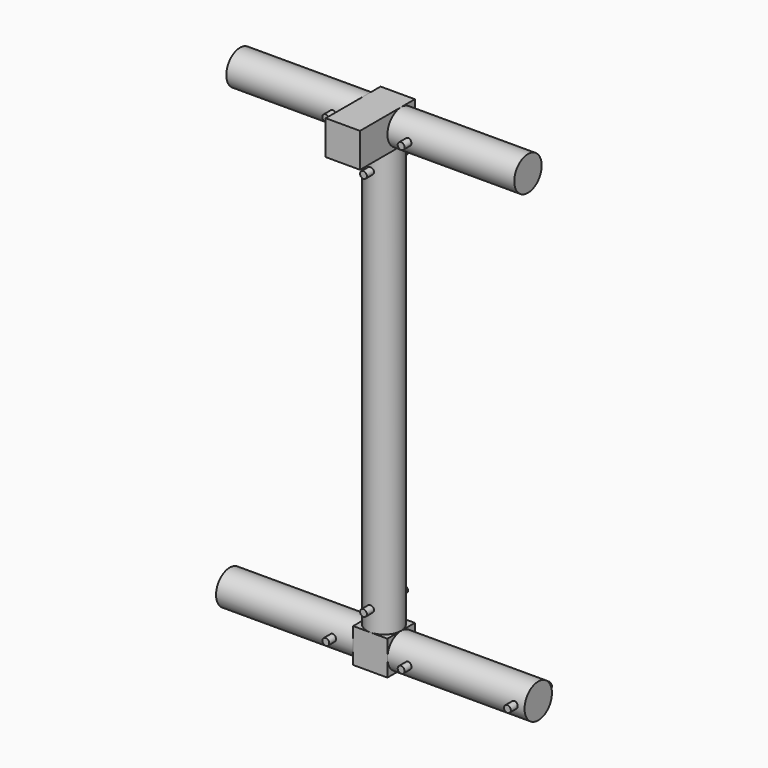
from build123d import *

# Parameters (mm, degrees)
CYLINDER_R                = 10
CYLINDER_DEPTH            = 80
CYLINDER002_R             = 10
CYLINDER002_DEPTH         = 80
CYLINDER003_R             = 10
CYLINDER003_DEPTH         = 74
CYLINDER004_R             = 10
CYLINDER004_DEPTH         = 74
CYLINDER005_R             = 10
CYLINDER005_DEPTH         = 74
CYLINDER006_R             = 10
CYLINDER006_DEPTH         = 101
CYLINDER007_R             = 10
CYLINDER007_DEPTH         = 74
TUBE_R                    = 10
TUBE_R_2                  = 7.75
TUBE_DEPTH                = 249
CYLINDER012_R             = 2
CYLINDER012_DEPTH         = 30
CYLINDER013_R             = 2
CYLINDER013_DEPTH         = 30
CYLINDER014_R             = 2
CYLINDER014_DEPTH         = 30
CYLINDER009_R             = 7.75
CYLINDER009_DEPTH         = 30
CYLINDER008_R             = 7.75
CYLINDER008_DEPTH         = 60
BOX_W                     = 20
BOX_H                     = 20
BOX_DEPTH                 = 20
CYLINDER017_R             = 2.5
CYLINDER017_DEPTH         = 30
CYLINDER018_R             = 2.5
CYLINDER018_DEPTH         = 30
CYLINDER019_R             = 2.5
CYLINDER019_DEPTH         = 30
CYLINDER016_R             = 7.75
CYLINDER016_DEPTH         = 30
CYLINDER015_R             = 7.75
CYLINDER015_DEPTH         = 60
BOX001_W                  = 20
BOX001_H                  = 40
BOX001_DEPTH              = 20
CUT001_PLACEMENT_ANGLE    = 180
CYLINDER020_R             = 2
CYLINDER020_DEPTH         = 30
CYLINDER021_R             = 2
CYLINDER021_DEPTH         = 30
CYLINDER022_R             = 2
CYLINDER022_DEPTH         = 30
CYLINDER023_R             = 2
CYLINDER023_DEPTH         = 30
CYLINDER024_R             = 2
CYLINDER024_DEPTH         = 30
CYLINDER025_R             = 2
CYLINDER025_DEPTH         = 30
FUSION006_PLACEMENT_ANGLE = 180
CYLINDER026_R             = 2
CYLINDER026_DEPTH         = 30


with BuildPart() as cadera_izquierda:
    # Cylinder → Cylinder (new body)
    with BuildSketch(Plane(origin=(10, 0, 0), x_dir=(0, 0, -1), z_dir=(1, 0, 0))):
        Circle(CYLINDER_R)
    extrude(amount=CYLINDER_DEPTH)


with BuildPart() as obj1:
    # Cylinder002 → Cylinder002 (new body)
    with BuildSketch(Plane(origin=(-90, 0, 0), x_dir=(0, 0, -1), z_dir=(1, 0, 0))):
        Circle(CYLINDER002_R)
    extrude(amount=CYLINDER002_DEPTH)


with BuildPart() as obj2:
    # Cylinder003 → Cylinder003 (new body)
    with BuildSketch(Plane(origin=(-84, 0, 269), x_dir=(0, 0, -1), z_dir=(1, 0, 0))):
        Circle(CYLINDER003_R)
    extrude(amount=CYLINDER003_DEPTH)


with BuildPart() as obj3:
    # Cylinder004 → Cylinder004 (new body)
    with BuildSketch(Plane(origin=(10, 0, 269), x_dir=(0, 0, -1), z_dir=(1, 0, 0))):
        Circle(CYLINDER004_R)
    extrude(amount=CYLINDER004_DEPTH)


with BuildPart() as vertebral001:
    # Cylinder005 → Cylinder005 (new body)
    with BuildSketch(Plane.XY.offset(185)):
        Circle(CYLINDER005_R)
    extrude(amount=CYLINDER005_DEPTH)


with BuildPart() as vertebral002:
    # Cylinder006 → Cylinder006 (new body)
    with BuildSketch(Plane.XY.offset(84)):
        Circle(CYLINDER006_R)
    extrude(amount=CYLINDER006_DEPTH)


with BuildPart() as vertebral003:
    # Cylinder007 → Cylinder007 (new body)
    with BuildSketch(Plane.XY.offset(10)):
        Circle(CYLINDER007_R)
    extrude(amount=CYLINDER007_DEPTH)


with BuildPart() as obj4:
    # Tube → Tube (new body)
    with BuildSketch(Plane.XY.offset(10)):
        Circle(TUBE_R)
        Circle(TUBE_R_2, mode=Mode.SUBTRACT)
    extrude(amount=TUBE_DEPTH)


with BuildPart() as taladros:
    # Cylinder012 → Cylinder012 (new body)
    with BuildSketch(Plane(origin=(22, 15, 0), x_dir=(1, 0, 0), z_dir=(0, -1, 0))):
        Circle(CYLINDER012_R)
    extrude(amount=CYLINDER012_DEPTH)


with BuildPart() as taladros001:
    # Cylinder013 → Cylinder013 (new body)
    with BuildSketch(Plane(origin=(-22, 15, 0), x_dir=(1, 0, 0), z_dir=(0, -1, 0))):
        Circle(CYLINDER013_R)
    extrude(amount=CYLINDER013_DEPTH)


with BuildPart() as obj5:
    # Cylinder014 → Cylinder014 (new body)
    with BuildSketch(Plane(origin=(0, 15, 22), x_dir=(1, 0, 0), z_dir=(0, -1, 0))):
        Circle(CYLINDER014_R)
    extrude(amount=CYLINDER014_DEPTH)

    # Fusion002: union Taladros, Taladros001
    add(taladros.part)
    add(taladros001.part)


with BuildPart() as obj6:
    # Cylinder009 → Cylinder009 (new body)
    with BuildSketch(Plane.XY):
        Circle(CYLINDER009_R)
    extrude(amount=CYLINDER009_DEPTH)


with BuildPart() as obj7:
    # Cylinder008 → Cylinder008 (new body)
    with BuildSketch(Plane(origin=(-30, 0, 0), x_dir=(0, 0, -1), z_dir=(1, 0, 0))):
        Circle(CYLINDER008_R)
    extrude(amount=CYLINDER008_DEPTH)


with BuildPart() as obj8:
    # Box → Box (new body)
    with BuildSketch(Plane(origin=(-10, -10, -10), x_dir=(1, 0, 0), z_dir=(0, 0, 1))):
        with Locations((10, 10)):
            Rectangle(BOX_W, BOX_H)
    extrude(amount=BOX_DEPTH)

    # Fusion001: union obj6, obj7
    add(obj6.part)
    add(obj7.part)

    # Cut: cut obj5
    add(obj5.part, mode=Mode.SUBTRACT)


with BuildPart() as taladros003:
    # Cylinder017 → Cylinder017 (new body)
    with BuildSketch(Plane(origin=(20, 15, 0), x_dir=(1, 0, 0), z_dir=(0, -1, 0))):
        Circle(CYLINDER017_R)
    extrude(amount=CYLINDER017_DEPTH)


with BuildPart() as taladros004:
    # Cylinder018 → Cylinder018 (new body)
    with BuildSketch(Plane(origin=(-20, 15, 0), x_dir=(1, 0, 0), z_dir=(0, -1, 0))):
        Circle(CYLINDER018_R)
    extrude(amount=CYLINDER018_DEPTH)


with BuildPart() as obj9:
    # Cylinder019 → Cylinder019 (new body)
    with BuildSketch(Plane(origin=(0, 15, 20), x_dir=(1, 0, 0), z_dir=(0, -1, 0))):
        Circle(CYLINDER019_R)
    extrude(amount=CYLINDER019_DEPTH)

    # Fusion004: union Taladros003, Taladros004
    add(taladros003.part)
    add(taladros004.part)


with BuildPart() as obj10:
    # Cylinder016 → Cylinder016 (new body)
    with BuildSketch(Plane.XY):
        Circle(CYLINDER016_R)
    extrude(amount=CYLINDER016_DEPTH)


with BuildPart() as obj11:
    # Cylinder015 → Cylinder015 (new body)
    with BuildSketch(Plane(origin=(-30, 0, 0), x_dir=(0, 0, -1), z_dir=(1, 0, 0))):
        Circle(CYLINDER015_R)
    extrude(amount=CYLINDER015_DEPTH)


with BuildPart() as obj12:
    # Box001 → Box001 (new body)
    with BuildSketch(Plane(origin=(-10, -10, -10), x_dir=(1, 0, 0), z_dir=(0, 0, 1))):
        with Locations((10, 20)):
            Rectangle(BOX001_W, BOX001_H)
    extrude(amount=BOX001_DEPTH)

    # Fusion003: union obj10, obj11
    add(obj10.part)
    add(obj11.part)

    # Cut001: cut obj9
    add(obj9.part, mode=Mode.SUBTRACT)


with BuildPart() as obj12_1:
    # Cut001 placement: moved
    add(obj12.part.moved(Location((0, 0, 269))).rotate(Axis((0, 0, 269), (1, 0, 0)), CUT001_PLACEMENT_ANGLE))


with BuildPart() as taladros006:
    # Cylinder020 → Cylinder020 (new body)
    with BuildSketch(Plane(origin=(22, 15, 0), x_dir=(1, 0, 0), z_dir=(0, -1, 0))):
        Circle(CYLINDER020_R)
    extrude(amount=CYLINDER020_DEPTH)


with BuildPart() as taladros007:
    # Cylinder021 → Cylinder021 (new body)
    with BuildSketch(Plane(origin=(-22, 15, 0), x_dir=(1, 0, 0), z_dir=(0, -1, 0))):
        Circle(CYLINDER021_R)
    extrude(amount=CYLINDER021_DEPTH)


with BuildPart() as obj13:
    # Cylinder022 → Cylinder022 (new body)
    with BuildSketch(Plane(origin=(0, 15, 22), x_dir=(1, 0, 0), z_dir=(0, -1, 0))):
        Circle(CYLINDER022_R)
    extrude(amount=CYLINDER022_DEPTH)

    # Fusion005: union Taladros006, Taladros007
    add(taladros006.part)
    add(taladros007.part)


with BuildPart() as taladros009:
    # Cylinder023 → Cylinder023 (new body)
    with BuildSketch(Plane(origin=(22, 15, 0), x_dir=(1, 0, 0), z_dir=(0, -1, 0))):
        Circle(CYLINDER023_R)
    extrude(amount=CYLINDER023_DEPTH)


with BuildPart() as taladros010:
    # Cylinder024 → Cylinder024 (new body)
    with BuildSketch(Plane(origin=(-22, 15, 0), x_dir=(1, 0, 0), z_dir=(0, -1, 0))):
        Circle(CYLINDER024_R)
    extrude(amount=CYLINDER024_DEPTH)


with BuildPart() as obj14:
    # Cylinder025 → Cylinder025 (new body)
    with BuildSketch(Plane(origin=(0, 15, 22), x_dir=(1, 0, 0), z_dir=(0, -1, 0))):
        Circle(CYLINDER025_R)
    extrude(amount=CYLINDER025_DEPTH)

    # Fusion006: union Taladros009, Taladros010
    add(taladros009.part)
    add(taladros010.part)


with BuildPart() as obj14_1:
    # Fusion006 placement: moved
    add(obj14.part.moved(Location((0, 0, 269))).rotate(Axis((0, 0, 269), (1, 0, 0)), FUSION006_PLACEMENT_ANGLE))


with BuildPart() as taladros012:
    # Cylinder026 → Cylinder026 (new body)
    with BuildSketch(Plane(origin=(84, 15, 0), x_dir=(1, 0, 0), z_dir=(0, -1, 0))):
        Circle(CYLINDER026_R)
    extrude(amount=CYLINDER026_DEPTH)


solid = Compound([cadera_izquierda.part, obj1.part, obj2.part, obj3.part, vertebral001.part, vertebral002.part, vertebral003.part, obj4.part, obj8.part, obj12_1.part, obj13.part, obj14_1.part, taladros012.part])
